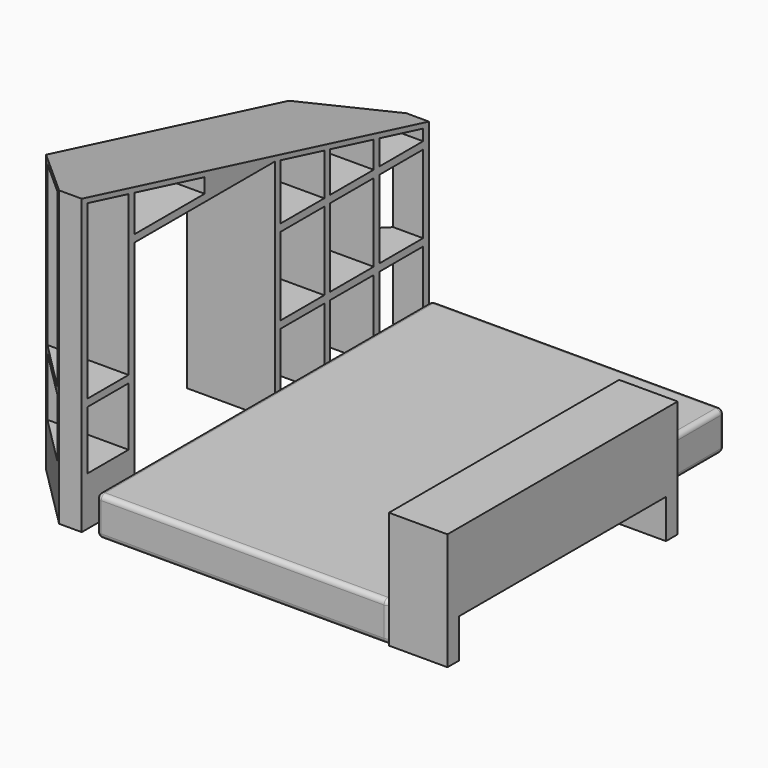
from build123d import *

# Parameters (mm, degrees)
F0_W      = 1498.6
F0_H      = 609.6
F1_DEPTH  = 304.8
F2_W      = 1346.2
F2_H      = 304.8
F3_DEPTH  = 279.4
F4_W      = 1346.2
F4_H      = 203.2
F5_DEPTH  = 279.4
F6_W      = 1524
F6_H      = 2184.4
F7_DEPTH  = 203.2
F9_DEPTH  = 1574.8
F10_R     = 25.4
F12_DEPTH = 457.201
F13_W     = 266.7
F13_H     = 304.8
F13_W_2   = 283.6333333333
F13_H_2   = 406.4
F13_W_3   = 914.4
F13_H_3   = 1188.3268992773
F14_DEPTH = 457.201


with BuildPart() as f1:
    # F0 (on Right) → F1 (new body)
    with BuildSketch(Plane.YZ):
        with Locations((-1511.3, 304.8)):
            Rectangle(F0_W, F0_H)
    extrude(amount=-F1_DEPTH)

    # F2 (on face) → F3 (cut)
    with BuildSketch(Plane(origin=(-304.8, 0, 0), x_dir=(0, -1, 0), z_dir=(-1, 0, 0))):
        with Locations((1511.3, 381)):
            Rectangle(F2_W, F2_H)
    extrude(amount=-F3_DEPTH, mode=Mode.SUBTRACT)

    # F4 (on face) → F5 (cut)
    with BuildSketch(Plane.YZ):
        with Locations((-1511.3, 101.6)):
            Rectangle(F4_W, F4_H)
    extrude(amount=-F5_DEPTH, mode=Mode.SUBTRACT)


with BuildPart() as f7:
    # F6 (on Top) → F7 (new body)
    with BuildSketch(Plane.XY):
        with Locations((-1066.8, -1168.4)):
            Rectangle(F6_W, F6_H)
    extrude(amount=F7_DEPTH)

    # F10
    f10_edges = [f7.edges().sort_by_distance(p)[0] for p in [
        (-304.8, -1168.4, 203.2),
        (-1066.8, -76.2, 203.2),
        (-1828.8, -1168.4, 203.2),
        (-1066.8, -2260.6, 203.2),
        (-1828.8, -2260.6, 101.6),
        (-304.8, -2260.6, 101.6),
        (-304.8, -76.2, 101.6),
        (-1828.8, -76.2, 101.6),
        (-304.8, -1168.4, 0),
        (-1066.8, -76.2, 0),
        (-1828.8, -1168.4, 0),
        (-1066.8, -2260.6, 0),
    ]]
    fillet(f10_edges, radius=F10_R)


with BuildPart() as f9:
    # F8 (on Top) → F9 (new body)
    with BuildSketch(Plane.XY):
        Polygon((-1905, -2260.6), (-1905, 0), (-2022.7544, 0), (-2362.2, -339.4456), (-2362.2, -1921.1544), (-2022.7544, -2260.6), align=None)
    extrude(amount=F9_DEPTH)

    # F11 (on face) → F12 (cut, through all)
    with BuildSketch(Plane.YZ.offset(-1905)):
        Polygon((-2260.6, 1574.8), (-2260.6, 1528.83362), (0, 963.68362), (0, 1574.8), align=None)
    extrude(amount=-F12_DEPTH, mode=Mode.SUBTRACT)

    # F13 (on face) → F14 (cut, through all)
    with BuildSketch(Plane.YZ.offset(-1905)):
        with Locations((-2089.15, 406.4)):
            Rectangle(F13_W, F13_H)
        Polygon((-2222.5, 1493.1268992773), (-2222.5, 596.9), (-1955.8, 596.9), (-1955.8, 1426.4518992773), align=None)
        Polygon((-38.1, 947.0268992773), (-321.7333333333, 1017.9352326107), (-321.7333333333, 889), (-38.1, 889), align=None)
        with Locations((-179.9166666667, 647.7)):
            Rectangle(F13_W_2, F13_H_2)
        with Locations((-179.9166666667, 203.2)):
            Rectangle(F13_W_2, F13_H_2)
        with Locations((-1460.5, 594.1634496387)):
            Rectangle(F13_W_3, F13_H_3)
        with Locations((-501.65, 203.2)):
            Rectangle(F13_W_2, F13_H_2)
        with Locations((-823.3833333333, 203.2)):
            Rectangle(F13_W_2, F13_H_2)
        with Locations((-501.65, 647.7)):
            Rectangle(F13_W_2, F13_H_2)
        with Locations((-823.3833333333, 647.7)):
            Rectangle(F13_W_2, F13_H_2)
        Polygon((-643.4666666667, 889), (-359.8333333333, 889), (-359.8333333333, 1027.4602326107), (-643.4666666667, 1098.368565944), align=None)
        Polygon((-965.2, 889), (-681.5666666667, 889), (-681.5666666667, 1107.893565944), (-965.2, 1178.8018992773), align=None)
        Polygon((-1917.7, 1416.9268992773), (-1917.7, 1226.4268992773), (-1460.5, 1226.4268992773), (-1460.5, 1302.6268992773), align=None)
    extrude(amount=-F14_DEPTH, mode=Mode.SUBTRACT)


solid = Compound([f1.part, f7.part, f9.part])
